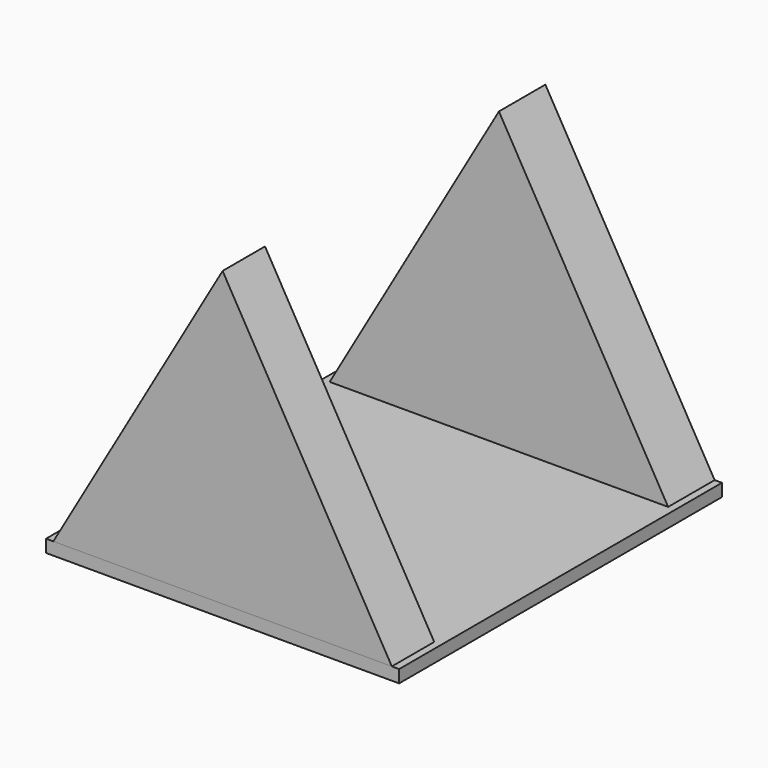
from build123d import *

# Parameters (mm, degrees)
F1_DEPTH = 80
F2_W     = 57.9757587984
F2_H     = 70
F3_DEPTH = 100
F4_W     = 70
F4_H     = 80
F5_DEPTH = 2.5


with BuildPart() as f1:
    # F0 (on Front) → F1 (new body)
    with BuildSketch(Plane.XZ):
        Polygon((35, 0), (0, 60.6217782649), (-35, 0), align=None)
    extrude(amount=F1_DEPTH)

    # F2 (on face) → F3 (cut)
    with BuildSketch(Plane(origin=(-26.25, 0, 15.1554445662), x_dir=(0, -1, 0), z_dir=(-0.8660254038, 0, 0.5))):
        with Locations((40.5064574443, 17.5)):
            Rectangle(F2_W, F2_H)
    extrude(amount=-F3_DEPTH, mode=Mode.SUBTRACT)


with BuildPart() as f5:
    # F4 (on Top) → F5 (new body)
    with BuildSketch(Plane.XY):
        with Locations((0, -40)):
            Rectangle(F4_W, F4_H)
    extrude(amount=F5_DEPTH)


solid = Compound([f1.part, f5.part])
